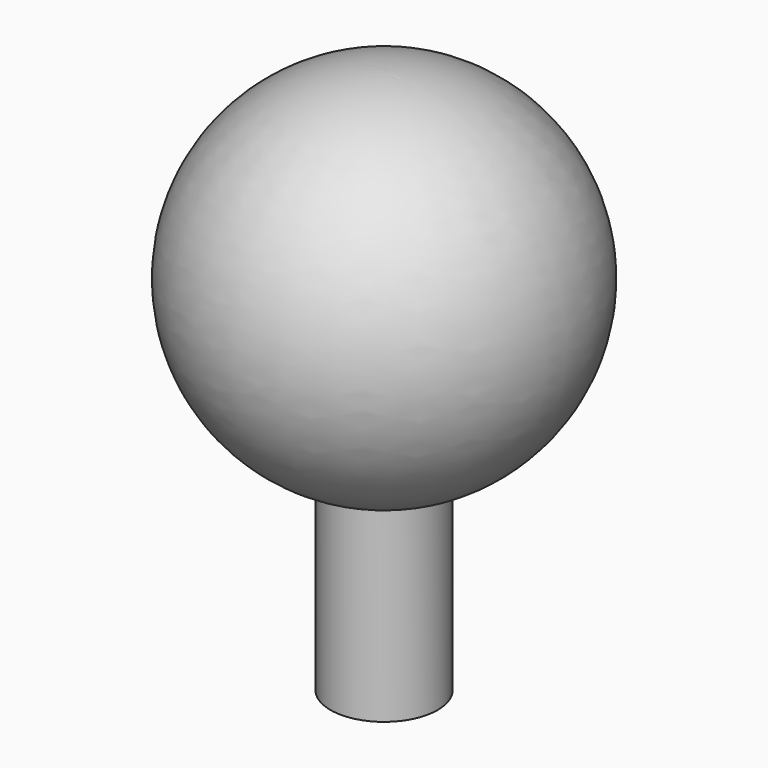
from build123d import *


with BuildPart() as f1:
    # F0 (on Front) → F1 (revolve)
    with BuildSketch(Plane.XZ):
        with BuildLine():
            Line((1.478393, -10), (1.478393, -4.776437))
            ThreePointArc((1.478393, -4.776437), (4.943793, 0.7476), (0, 5))
            Line((0, 5), (0, -10))
            Line((0, -10), (1.478393, -10))
        make_face()
    revolve(axis=Axis((0, 0, -2.431404), (0, 0, -1)))


solid = f1.part
